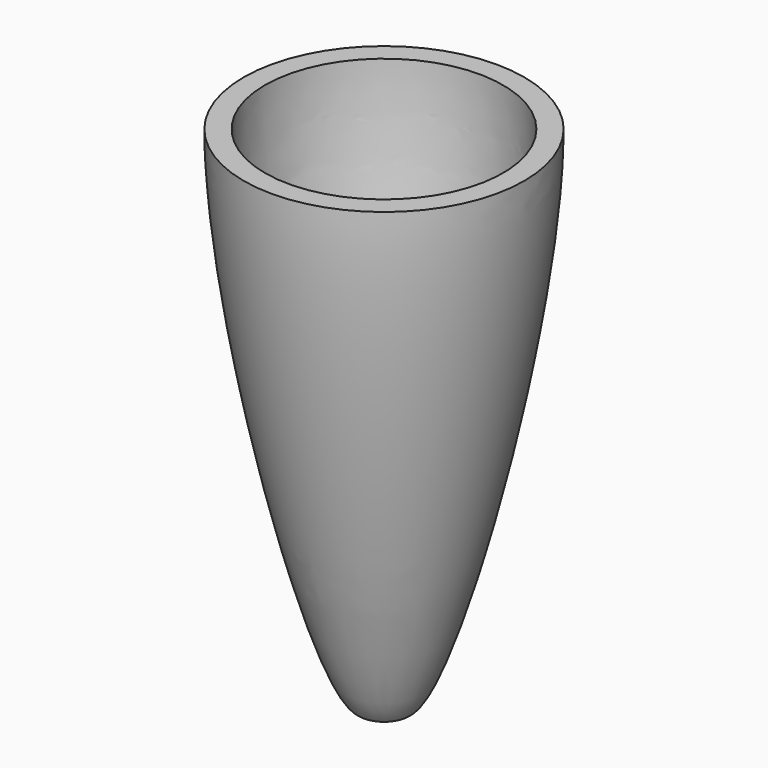
from build123d import *


with BuildPart() as f1:
    # F0 (on Front) → F1 (revolve)
    with BuildSketch(Plane.XZ):
        with BuildLine():
            add(Edge.make_bspline(
                [(-2.5, -52.80147), (-6.395829, -52.707138), (-16.5, -12.106971), (-16.5, 7.19853)],
                knots=[0, 0, 0, 0, 61.611687, 61.611687, 61.611687, 61.611687], degree=3))
            Line((-2.5, -52.80147), (-2.5, -50.30147))
            add(Edge.make_bspline(
                [(-14, 7.19853), (-14, -12.106971), (-4.34899, -50.402597), (-2.5, -50.30147)],
                knots=[0, 0, 0, 0, 58.638724, 58.638724, 58.638724, 58.638724], degree=3))
            Line((-14, 7.19853), (-16.5, 7.19853))
        make_face()
    revolve(axis=Axis((0, 0, -16.508503), (0, 0, -1)))


solid = f1.part
